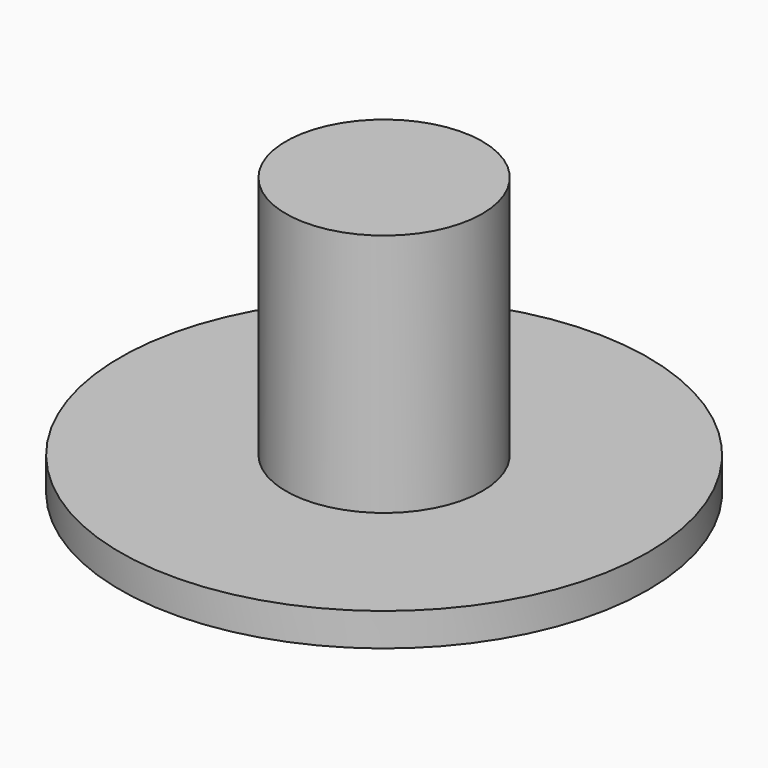
from build123d import *

# Parameters (mm, degrees)
F0_R     = 8
F1_DEPTH = 1
F3_R     = 8
F4_DEPTH = 1
F5_R     = 2.975
F6_DEPTH = 7.4


with BuildPart() as f1:
    # F0 (on Top) → F1 (new body)
    with BuildSketch(Plane.XY):
        with Locations((-0.1634992032, 0.8891506742)):
            Circle(F0_R)
    extrude(amount=F1_DEPTH)


with BuildPart() as f4:
    # F3 (on Top) → F4 (new body)
    with BuildSketch(Plane.XY):
        Circle(F3_R)
    extrude(amount=F4_DEPTH)

    # F5 (on face) → F6 (join)
    with BuildSketch(Plane.XY.offset(1)):
        Circle(F5_R)
    extrude(amount=F6_DEPTH)


solid = f4.part
